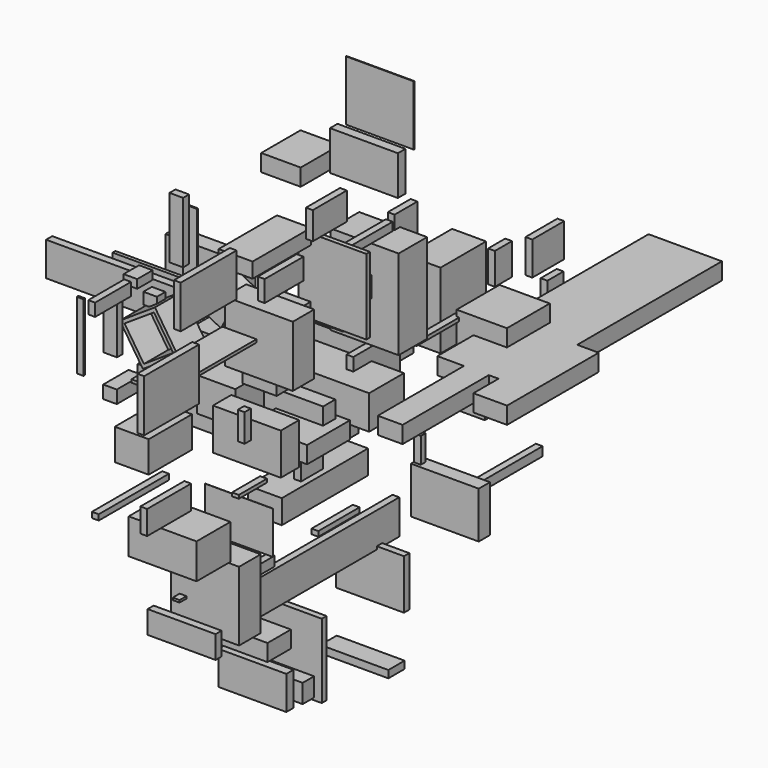
from build123d import *

# Parameters (mm, degrees)
F0_W      = 28.559897095
F0_H      = 32.4217826128
F1_DEPTH  = 25.4
F0_W_2    = 44.2454107106
F0_H_2    = 11.4498063922
F0_W_3    = 133.2189887762
F0_H_3    = 32.6500460505
F0_W_4    = 66.679764539
F0_H_4    = 44.3857759237
F0_W_5    = 37.6412570477
F0_H_5    = 40.0894209743
F2_W      = 80.6891396642
F2_H      = 17.8445279598
F3_DEPTH  = 25.4
F2_W_2    = 31.7957364023
F2_H_2    = 49.1487644613
F2_W_3    = 39.294719696
F2_H_3    = 30.7485386729
F2_W_4    = 42.5942763686
F2_H_4    = 56.4955100417
F2_W_5    = 40.4945909977
F2_H_5    = 23.3645774424
F2_W_6    = 85.1885527372
F2_H_6    = 2.2598206997
F2_W_7    = 54.5923784375
F2_H_7    = 11.3234147429
F2_W_8    = 23.6968249083
F2_H_8    = 16.5533795953
F5_DEPTH  = 25.4
F6_T      = -2.54
F7_W      = 43.297290802
F7_H      = 40.1066243649
F8_DEPTH  = 12.7
F7_W_2    = 18.568277359
F7_H_2    = 80.6431919336
F7_H_3    = 6.7324489355
F7_W_3    = 9.1014951468
F7_H_4    = 62.2424930334
F7_W_4    = 29.5616686344
F7_H_5    = 36.7451608181
F9_W      = 31.8735390902
F9_H      = 20.5675512552
F10_DEPTH = 5.08
F9_W_2    = 21.3022083044
F9_H_2    = 31.3268601894
F9_W_3    = 45.5915033817
F9_H_3    = 6.1755850911
F9_W_4    = 36.3486260176
F9_H_4    = 15.8306434751
F9_W_5    = 52.2584319115
F9_H_5    = 32.0683717728
F9_W_6    = 33.6488336325
F9_H_6    = 9.4421803951
F9_W_7    = 1.519754529
F9_H_7    = 50.4851043224
F9_W_8    = 51.3029694557
F9_H_8    = 39.0299633145
F9_W_9    = 5.8415979147
F9_H_9    = 20.8574011922
F9_W_10   = 65.7223761082
F9_H_10   = 4.1697770357
F9_W_11   = 41.1220341921
F9_H_11   = 17.8798511624
F9_W_12   = 26.3081341982
F9_H_12   = 2.5649964809
F9_W_13   = 20.5110311508
F9_H_13   = 14.8934349418
F9_W_14   = 4.7560185194
F9_H_14   = 11.4292055368
F9_W_15   = 51.387861371
F9_H_15   = 2.6466399431
F9_W_16   = 15.9692913294
F9_H_16   = 23.6483663321
F9_W_17   = 29.8919826746
F9_H_17   = 25.1144468784
F9_W_18   = 15.031337738
F9_H_18   = 19.5079594851
F9_W_19   = 26.9462317228
F9_H_19   = 17.2404795885
F9_W_20   = 4.5361369848
F9_H_20   = 18.9570635557
F9_W_21   = 38.6341363192
F9_H_21   = 3.7466958165
F9_W_22   = 46.9239205122
F9_H_22   = 7.1173608303
F9_W_23   = 6.4502358437
F9_H_23   = 1.664660871
F9_W_24   = 165.9474521875
F9_H_24   = 25.9192734957
F9_W_25   = 58.2427680492
F9_H_25   = 6.6805630922
F11_W     = 99.0424454212
F11_H     = 5.7936012745
F12_DEPTH = 25.4
F11_W_2   = 58.5615038872
F11_H_2   = 2.6696175337
F11_W_3   = 6.8596899509
F11_H_3   = 23.6499011517
F11_W_4   = 44.627815485
F11_H_4   = 11.7246061563
F11_W_5   = 2.7210116386
F11_H_5   = 9.0063214302
F11_W_6   = 31.2420576811
F11_H_6   = 20.0929678977
F11_W_7   = 26.4412611723
F11_H_7   = 37.6913920045
F13_W     = 19.4095000625
F13_H     = 5.0404667854
F14_DEPTH = 10.16
F13_W_2   = 3.6232918501
F13_H_2   = 45.0735986233
F13_W_3   = 23.6924290657
F13_H_3   = 9.6182823181
F13_W_4   = 5.1036439836
F13_H_4   = 38.66545856
F13_W_5   = 14.406517148
F13_H_5   = 6.4018070698
F13_W_6   = 7.9500600696
F13_H_6   = 8.4991455078
F13_W_7   = 5.5729411542
F13_H_7   = 45.8022505045
F13_W_8   = 0.9631291032
F13_H_8   = 112.7025783062
F15_W     = 19.9924185872
F15_H     = 45.6196814775
F16_DEPTH = 50.8
F15_W_2   = 17.1394199133
F15_H_2   = 31.0489833355
F15_W_3   = 0.1778677106
F15_H_3   = 31.7852795124
F15_W_4   = 20.2640295029
F15_H_4   = 51.8726110458
F15_W_5   = 26.6395285726
F15_H_5   = 67.0022368431
F15_W_6   = 0.5219876766
F15_H_6   = 44.9620336294
F15_W_7   = 7.0931091905
F15_H_7   = 29.5194387436
F15_W_8   = 3.3795535564
F15_H_8   = 56.3943237066
F15_W_9   = 4.4685006142
F15_H_9   = 55.5798411369
F15_W_10  = 10.6793195009
F15_H_10  = 14.0244215727
F15_W_11  = 6.6581219435
F15_H_11  = 25.1188278198
F15_W_12  = 21.878965199
F15_H_12  = 12.5806629658
F15_W_13  = 15.1993334293
F15_H_13  = 5.5031627417
F15_W_14  = 5.0265192986
F15_H_14  = 37.2203886509
F15_W_15  = 10.5336606503
F15_H_15  = 34.8431766033
F15_W_16  = 31.6697359085
F15_H_16  = 26.3114124537
F15_W_17  = 5.6465417147
F15_H_17  = 17.0097351074


with BuildPart() as f1:
    # F0 (on Top) → F1 (new body)
    with BuildSketch(Plane.XY):
        with Locations((-23.7494278699, -28.6053717136)):
            Rectangle(F0_W, F0_H)
    extrude(amount=F1_DEPTH)


with BuildPart() as f1b:
    # F0 (on Top) → F1, piece 2 (new body)
    with BuildSketch(Plane.XY):
        with Locations((22.1227053553, -24.1679884493)):
            Rectangle(F0_W_2, F0_H_2)
    extrude(amount=F1_DEPTH)


with BuildPart() as f1c:
    # F0 (on Top) → F1, piece 3 (new body)
    with BuildSketch(Plane.XY):
        with Locations((-11.8577182293, 16.3250230253)):
            Rectangle(F0_W_3, F0_H_3)
    extrude(amount=F1_DEPTH)

    # F4 (on Front) → F5 (join)
    with BuildSketch(Plane.XZ):
        Polygon((-67.9728090763, 20.5160006881), (-85.2052047849, 46.7541962862), (-111.443400383, 29.5218005776), (-94.2110046744, 3.2836049795), align=None)
    extrude(amount=F5_DEPTH)

    # F6
    f6_openings = [f1c.faces().sort_by_distance(p)[0] for p in [
        (-89.708105, -25.4, 25.018901),
    ]]
    offset(amount=F6_T, openings=f6_openings, kind=Kind.INTERSECTION)

    # F11 (on face) → F12, piece 7 (join)
    with BuildSketch(Plane(origin=(0, 0, 0), x_dir=(1, 0, 0), z_dir=(0, 0, -1))):
        with Locations((-53.2291308045, 2.1532215178)):
            Rectangle(F11_W_7, F11_H_7)
    extrude(amount=F12_DEPTH)

    # F13 (on face) → F14, piece 6 (join)
    with BuildSketch(Plane(origin=(-94.3002402782, 0, 0), x_dir=(0, -1, 0), z_dir=(-1, 0, 0))):
        with Locations((8.170388639, 41.1610901356)):
            Rectangle(F13_W_6, F13_H_6)
    extrude(amount=F14_DEPTH)


with BuildPart() as f1d:
    # F0 (on Top) → F1, piece 4 (new body)
    with BuildSketch(Plane.XY):
        with Locations((-20.568812266, 71.7714056373)):
            Rectangle(F0_W_4, F0_H_4)
    extrude(amount=F1_DEPTH)


with BuildPart() as f1e:
    # F0 (on Top) → F1, piece 5 (new body)
    with BuildSketch(Plane.XY):
        with Locations((47.4241748452, 134.5798708498)):
            Rectangle(F0_W_5, F0_H_5)
    extrude(amount=F1_DEPTH)


with BuildPart() as f3:
    # F2 (on Right) → F3 (new body)
    with BuildSketch(Plane.YZ):
        with Locations((-4.6492405236, -43.9149215817)):
            Rectangle(F2_W, F2_H)
    extrude(amount=F3_DEPTH)


with BuildPart() as f3b:
    # F2 (on Right) → F3, piece 2 (new body)
    with BuildSketch(Plane.YZ):
        with Locations((-33.8953118771, 58.8576365262)):
            Rectangle(F2_W_2, F2_H_2)
    extrude(amount=F3_DEPTH)


with BuildPart() as f3c:
    # F2 (on Right) → F3, piece 3 (new body)
    with BuildSketch(Plane.YZ):
        with Locations((31.9458395243, 66.7213834822)):
            Rectangle(F2_W_3, F2_H_3)
    extrude(amount=F3_DEPTH)


with BuildPart() as f3d:
    # F2 (on Right) → F3, piece 4 (new body)
    with BuildSketch(Plane.YZ):
        with Locations((124.7833706439, 28.2477550209)):
            Rectangle(F2_W_4, F2_H_4)
    extrude(amount=F3_DEPTH)


with BuildPart() as f3e:
    # F2 (on Right) → F3, piece 5 (new body)
    with BuildSketch(Plane.YZ):
        with Locations((-149.2297798395, 42.7494179457)):
            Rectangle(F2_W_5, F2_H_5)
    extrude(amount=F3_DEPTH)


with BuildPart() as f3f:
    # F2 (on Right) → F3, piece 6 (new body)
    with BuildSketch(Plane.YZ):
        with Locations((-111.2848892808, 78.2426446676)):
            Rectangle(F2_W_6, F2_H_6)
    extrude(amount=F3_DEPTH)


with BuildPart() as f3g:
    # F2 (on Right) → F3, piece 7 (new body)
    with BuildSketch(Plane.YZ):
        with Locations((-44.9939258397, 126.3194568455)):
            Rectangle(F2_W_7, F2_H_7)
    extrude(amount=F3_DEPTH)


with BuildPart() as f3h:
    # F2 (on Right) → F3, piece 8 (new body)
    with BuildSketch(Plane.YZ):
        with Locations((156.7290946841, -52.5604821742)):
            Rectangle(F2_W_8, F2_H_8)
    extrude(amount=F3_DEPTH)


with BuildPart() as f5:
    # F4 (on Front) → F5, piece 2 (new body)
    with BuildSketch(Plane.XZ):
        Polygon((-27.0770415664, 65.4441937804), (-43.4685274959, 74.2157027125), (-52.240036428, 57.824216783), (-35.8485504985, 49.0527078509), align=None)
    extrude(amount=F5_DEPTH)


with BuildPart() as f8:
    # F7 (on Top) → F8 (new body)
    with BuildSketch(Plane.XY):
        with Locations((30.5206626654, -34.7537100315)):
            Rectangle(F7_W, F7_H)
    extrude(amount=F8_DEPTH)


with BuildPart() as f8b:
    # F7 (on Top) → F8, piece 2 (new body)
    with BuildSketch(Plane.XY):
        with Locations((70.5160871148, 40.3215959668)):
            Rectangle(F7_W_2, F7_H_2)
        Polygon((41.2989556789, 80.6431919336), (61.2319484353, 80.6431919336), (61.2319484353, 87.3756408691), (79.8002257943, 87.3756408691), (79.8002257943, 80.6431919336), (87.0959162712, 80.6431919336), (87.0959162712, 142.885684967), (96.197411418, 142.885684967), (96.197411418, 278.2210111618), (41.2989556789, 278.2210111618), align=None)
        with Locations((70.5160871148, 84.0094164014)):
            Rectangle(F7_W_2, F7_H_3)
        with Locations((91.6466638446, 111.7644384503)):
            Rectangle(F7_W_3, F7_H_4)
        Polygon((96.197411418, 80.6431919336), (87.0959162712, 80.6431919336), (87.0959162712, 57.1549683809), (112.2425943613, 57.1549683809), (112.2425943613, 142.885684967), (96.197411418, 142.885684967), align=None)
    extrude(amount=F8_DEPTH)


with BuildPart() as f8c:
    # F7 (on Top) → F8, piece 3 (new body)
    with BuildSketch(Plane.XY):
        with Locations((-184.8789304495, 235.471740365)):
            Rectangle(F7_W_4, F7_H_5)
    extrude(amount=F8_DEPTH)


with BuildPart() as f10:
    # F9 (on face) → F10 (new body)
    with BuildSketch(Plane.YZ.offset(25.4)):
        with Locations((-6.4310505986, 136.9360610843)):
            Rectangle(F9_W, F9_H)
    extrude(amount=F10_DEPTH)


with BuildPart() as f10b:
    # F9 (on face) → F10, piece 2 (new body)
    with BuildSketch(Plane.YZ.offset(25.4)):
        Polygon((12.2984796762, 66.7213834822), (39.3073111773, 66.7213834822), (51.3761565089, 66.7213834822), (51.3761565089, 82.0956528187), (12.2984796762, 82.0956528187), align=None)
    extrude(amount=F10_DEPTH)


with BuildPart() as f10c:
    # F9 (on face) → F10, piece 3 (new body)
    with BuildSketch(Plane.YZ.offset(25.4)):
        with Locations((64.8548081517, 97.4510535598)):
            Rectangle(F9_W_2, F9_H_2)
    extrude(amount=F10_DEPTH)


with BuildPart() as f10d:
    # F9 (on face) → F10, piece 4 (new body)
    with BuildSketch(Plane.YZ.offset(25.4)):
        with Locations((29.6652317047, 106.1042807996)):
            Rectangle(F9_W_3, F9_H_3)
    extrude(amount=F10_DEPTH)


with BuildPart() as f10e:
    # F9 (on face) → F10, piece 5 (new body)
    with BuildSketch(Plane.YZ.offset(25.4)):
        with Locations((-49.1818711162, 112.1693737805)):
            Rectangle(F9_W_4, F9_H_4)
    extrude(amount=F10_DEPTH)


with BuildPart() as f10f:
    # F9 (on face) → F10, piece 6 (new body)
    with BuildSketch(Plane.YZ.offset(25.4)):
        with Locations((-119.7269111872, 133.5855424404)):
            Rectangle(F9_W_5, F9_H_5)
    extrude(amount=F10_DEPTH)


with BuildPart() as f10g:
    # F9 (on face) → F10, piece 7 (new body)
    with BuildSketch(Plane.YZ.offset(25.4)):
        with Locations((-209.1561034322, 164.3262058496)):
            Rectangle(F9_W_6, F9_H_6)
    extrude(amount=F10_DEPTH)


with BuildPart() as f10h:
    # F9 (on face) → F10, piece 8 (new body)
    with BuildSketch(Plane.YZ.offset(25.4)):
        with Locations((-235.9959408641, 150.3864824772)):
            Rectangle(F9_W_7, F9_H_7)
    extrude(amount=F10_DEPTH)


with BuildPart() as f10i:
    # F9 (on face) → F10, piece 9 (new body)
    with BuildSketch(Plane.YZ.offset(25.4)):
        with Locations((-154.4145345688, 82.4102647603)):
            Rectangle(F9_W_8, F9_H_8)
    extrude(amount=F10_DEPTH)


with BuildPart() as f10j:
    # F9 (on face) → F10, piece 10 (new body)
    with BuildSketch(Plane.YZ.offset(25.4)):
        with Locations((-83.1973180175, 29.5950435102)):
            Rectangle(F9_W_9, F9_H_9)
    extrude(amount=F10_DEPTH)


with BuildPart() as f10k:
    # F9 (on face) → F10, piece 11 (new body)
    with BuildSketch(Plane.YZ.offset(25.4)):
        with Locations((-189.7084265947, 26.1527821422)):
            Rectangle(F9_W_10, F9_H_10)
    extrude(amount=F10_DEPTH)


with BuildPart() as f10l:
    # F9 (on face) → F10, piece 12 (new body)
    with BuildSketch(Plane.YZ.offset(25.4)):
        with Locations((-156.7019745708, 4.3851770461)):
            Rectangle(F9_W_11, F9_H_11)
    extrude(amount=F10_DEPTH)


with BuildPart() as f10m:
    # F9 (on face) → F10, piece 13 (new body)
    with BuildSketch(Plane.YZ.offset(25.4)):
        with Locations((-78.3722773194, -13.5600194335)):
            Rectangle(F9_W_12, F9_H_12)
    extrude(amount=F10_DEPTH)


with BuildPart() as f10n:
    # F9 (on face) → F10, piece 14 (new body)
    with BuildSketch(Plane.YZ.offset(25.4)):
        with Locations((-23.1081545353, -19.6737386286)):
            Rectangle(F9_W_13, F9_H_13)
    extrude(amount=F10_DEPTH)


with BuildPart() as f10o:
    # F9 (on face) → F10, piece 15 (new body)
    with BuildSketch(Plane.YZ.offset(25.4)):
        Polygon((5.8918297291, -17.1265602112), (20.2883034945, -17.1265602112), (20.2883034945, 6.2867254019), (15.5322849751, 6.2867254019), (15.5322849751, 17.7159309387), (5.8918297291, 17.7159309387), align=None)
        with Locations((17.9102942348, 12.0013281703)):
            Rectangle(F9_W_14, F9_H_14)
        Polygon((20.2883034945, 17.7159309387), (20.2883034945, 6.2867254019), (59.450134635, 6.2867254019), (59.450134635, 35.040602088), (15.5322849751, 35.040602088), (15.5322849751, 17.7159309387), align=None)
    extrude(amount=F10_DEPTH)


with BuildPart() as f10p:
    # F9 (on face) → F10, piece 16 (new body)
    with BuildSketch(Plane.YZ.offset(25.4)):
        with Locations((100.3523394465, 19.5119306445)):
            Rectangle(F9_W_15, F9_H_15)
    extrude(amount=F10_DEPTH)


with BuildPart() as f10q:
    # F9 (on face) → F10, piece 17 (new body)
    with BuildSketch(Plane.YZ.offset(25.4)):
        with Locations((156.0259237885, 39.2498597503)):
            Rectangle(F9_W_16, F9_H_16)
    extrude(amount=F10_DEPTH)


with BuildPart() as f10r:
    # F9 (on face) → F10, piece 18 (new body)
    with BuildSketch(Plane.YZ.offset(25.4)):
        with Locations((197.9082152247, 31.8285226822)):
            Rectangle(F9_W_17, F9_H_17)
    extrude(amount=F10_DEPTH)


with BuildPart() as f10s:
    # F9 (on face) → F10, piece 19 (new body)
    with BuildSketch(Plane.YZ.offset(25.4)):
        with Locations((204.6553343534, 1.7469003797)):
            Rectangle(F9_W_18, F9_H_18)
    extrude(amount=F10_DEPTH)


with BuildPart() as f10t:
    # F9 (on face) → F10, piece 20 (new body)
    with BuildSketch(Plane.YZ.offset(25.4)):
        with Locations((123.5722973943, -31.2805697322)):
            Rectangle(F9_W_19, F9_H_19)
    extrude(amount=F10_DEPTH)


with BuildPart() as f10u:
    # F9 (on face) → F10, piece 21 (new body)
    with BuildSketch(Plane.YZ.offset(25.4)):
        with Locations((80.9571370482, -52.1335378289)):
            Rectangle(F9_W_20, F9_H_20)
    extrude(amount=F10_DEPTH)


with BuildPart() as f10v:
    # F9 (on face) → F10, piece 22 (new body)
    with BuildSketch(Plane.YZ.offset(25.4)):
        with Locations((2.1378174424, -68.2023502886)):
            Rectangle(F9_W_21, F9_H_21)
    extrude(amount=F10_DEPTH)


with BuildPart() as f10w:
    # F9 (on face) → F10, piece 23 (new body)
    with BuildSketch(Plane.YZ.offset(25.4)):
        with Locations((-81.415630877, -69.5045515895)):
            Rectangle(F9_W_22, F9_H_22)
    extrude(amount=F10_DEPTH)


with BuildPart() as f10x:
    # F9 (on face) → F10, piece 24 (new body)
    with BuildSketch(Plane.YZ.offset(25.4)):
        with Locations((-143.7149047852, -59.8716326058)):
            Rectangle(F9_W_23, F9_H_23)
    extrude(amount=F10_DEPTH)


with BuildPart() as f10y:
    # F9 (on face) → F10, piece 25 (new body)
    with BuildSketch(Plane.YZ.offset(25.4)):
        with Locations((-24.4036391377, -87.8121778369)):
            Rectangle(F9_W_24, F9_H_24)
    extrude(amount=F10_DEPTH)


with BuildPart() as f10z:
    # F9 (on face) → F10, piece 26 (new body)
    with BuildSketch(Plane.YZ.offset(25.4)):
        with Locations((163.4963601828, -99.0376248956)):
            Rectangle(F9_W_25, F9_H_25)
    extrude(amount=F10_DEPTH)


with BuildPart() as f12:
    # F11 (on face) → F12 (new body)
    with BuildSketch(Plane(origin=(0, 0, 0), x_dir=(1, 0, 0), z_dir=(0, 0, -1))):
        with Locations((-194.9659734964, -74.7910290956)):
            Rectangle(F11_W, F11_H)
    extrude(amount=F12_DEPTH)


with BuildPart() as f12b:
    # F11 (on face) → F12, piece 2 (new body)
    with BuildSketch(Plane(origin=(0, 0, 0), x_dir=(1, 0, 0), z_dir=(0, 0, -1))):
        with Locations((-174.6852993965, -84.7581699491)):
            Rectangle(F11_W_2, F11_H_2)
    extrude(amount=F12_DEPTH)


with BuildPart() as f12c:
    # F11 (on face) → F12, piece 3 (new body)
    with BuildSketch(Plane(origin=(0, 0, 0), x_dir=(1, 0, 0), z_dir=(0, 0, -1))):
        with Locations((-127.2931843996, -105.3665429354)):
            Rectangle(F11_W_3, F11_H_3)
    extrude(amount=F12_DEPTH)


with BuildPart() as f12d:
    # F11 (on face) → F12, piece 4 (new body)
    with BuildSketch(Plane(origin=(0, 0, 0), x_dir=(1, 0, 0), z_dir=(0, 0, -1))):
        with Locations((-172.218516469, -127.0445361733)):
            Rectangle(F11_W_4, F11_H_4)
    extrude(amount=F12_DEPTH)


with BuildPart() as f12e:
    # F11 (on face) → F12, piece 5 (new body)
    with BuildSketch(Plane(origin=(0, 0, 0), x_dir=(1, 0, 0), z_dir=(0, 0, -1))):
        with Locations((-118.2885318995, -132.8906267881)):
            Rectangle(F11_W_5, F11_H_5)
    extrude(amount=F12_DEPTH)


with BuildPart() as f12f:
    # F11 (on face) → F12, piece 6 (new body)
    with BuildSketch(Plane(origin=(0, 0, 0), x_dir=(1, 0, 0), z_dir=(0, 0, -1))):
        with Locations((-78.6792114377, -56.7272584885)):
            Rectangle(F11_W_6, F11_H_6)
    extrude(amount=F12_DEPTH)


with BuildPart() as f14:
    # F13 (on face) → F14 (new body)
    with BuildSketch(Plane(origin=(-94.3002402782, 0, 0), x_dir=(0, -1, 0), z_dir=(-1, 0, 0))):
        with Locations((-9.7047500312, -59.408634901)):
            Rectangle(F13_W, F13_H)
    extrude(amount=F14_DEPTH)


with BuildPart() as f14b:
    # F13 (on face) → F14, piece 2 (new body)
    with BuildSketch(Plane(origin=(-94.3002402782, 0, 0), x_dir=(0, -1, 0), z_dir=(-1, 0, 0))):
        with Locations((15.6041830778, -22.5367993116)):
            Rectangle(F13_W_2, F13_H_2)
    extrude(amount=F14_DEPTH)


with BuildPart() as f14c:
    # F13 (on face) → F14, piece 3 (new body)
    with BuildSketch(Plane(origin=(-94.3002402782, 0, 0), x_dir=(0, -1, 0), z_dir=(-1, 0, 0))):
        with Locations((37.8492251039, -5.2394270897)):
            Rectangle(F13_W_3, F13_H_3)
    extrude(amount=F14_DEPTH)


with BuildPart() as f14d:
    # F13 (on face) → F14, piece 4 (new body)
    with BuildSketch(Plane(origin=(-94.3002402782, 0, 0), x_dir=(0, -1, 0), z_dir=(-1, 0, 0))):
        with Locations((46.9797644764, 40.0141999125)):
            Rectangle(F13_W_4, F13_H_4)
    extrude(amount=F14_DEPTH)


with BuildPart() as f14e:
    # F13 (on face) → F14, piece 5 (new body)
    with BuildSketch(Plane(origin=(-94.3002402782, 0, 0), x_dir=(0, -1, 0), z_dir=(-1, 0, 0))):
        with Locations((23.3927369118, 61.3347142935)):
            Rectangle(F13_W_5, F13_H_5)
    extrude(amount=F14_DEPTH)


with BuildPart() as f14f:
    # F13 (on face) → F14, piece 7 (new body)
    with BuildSketch(Plane(origin=(-94.3002402782, 0, 0), x_dir=(0, -1, 0), z_dir=(-1, 0, 0))):
        with Locations((-15.1341501623, 77.7026042342)):
            Rectangle(F13_W_7, F13_H_7)
    extrude(amount=F14_DEPTH)


with BuildPart() as f14g:
    # F13 (on face) → F14, piece 8 (new body)
    with BuildSketch(Plane(origin=(-94.3002402782, 0, 0), x_dir=(0, -1, 0), z_dir=(-1, 0, 0))):
        with Locations((-25.603916496, 31.8038016558)):
            Rectangle(F13_W_8, F13_H_8)
    extrude(amount=F14_DEPTH)


with BuildPart() as f16:
    # F15 (on Right) → F16 (new body)
    with BuildSketch(Plane.YZ):
        with Locations((-56.4437918365, 75.3966197371)):
            Rectangle(F15_W, F15_H)
    extrude(amount=F16_DEPTH)


with BuildPart() as f16b:
    # F15 (on Right) → F16, piece 2 (new body)
    with BuildSketch(Plane.YZ):
        with Locations((-69.0796673298, 15.5244916677)):
            Rectangle(F15_W_2, F15_H_2)
    extrude(amount=F16_DEPTH)


with BuildPart() as f16c:
    # F15 (on Right) → F16, piece 3 (new body)
    with BuildSketch(Plane.YZ):
        with Locations((-85.0100852549, -33.2448333502)):
            Rectangle(F15_W_3, F15_H_3)
    extrude(amount=F16_DEPTH)


with BuildPart() as f16d:
    # F15 (on Right) → F16, piece 4 (new body)
    with BuildSketch(Plane.YZ):
        with Locations((-106.5449118614, -68.7353610992)):
            Rectangle(F15_W_4, F15_H_4)
    extrude(amount=F16_DEPTH)


with BuildPart() as f16e:
    # F15 (on Right) → F16, piece 5 (new body)
    with BuildSketch(Plane.YZ):
        with Locations((45.8688773215, 69.4117844105)):
            Rectangle(F15_W_5, F15_H_5)
    extrude(amount=F16_DEPTH)


with BuildPart() as f16f:
    # F15 (on Right) → F16, piece 6 (new body)
    with BuildSketch(Plane.YZ):
        with Locations((46.9354167581, 188.1117448211)):
            Rectangle(F15_W_6, F15_H_6)
    extrude(amount=F16_DEPTH)


with BuildPart() as f16g:
    # F15 (on Right) → F16, piece 7 (new body)
    with BuildSketch(Plane.YZ):
        with Locations((35.3880412877, 154.5150876045)):
            Rectangle(F15_W_7, F15_H_7)
    extrude(amount=F16_DEPTH)


with BuildPart() as f16h:
    # F15 (on Right) → F16, piece 8 (new body)
    with BuildSketch(Plane.YZ):
        with Locations((4.0822923183, 86.7033079267)):
            Rectangle(F15_W_8, F15_H_8)
    extrude(amount=F16_DEPTH)


with BuildPart() as f16i:
    # F15 (on Right) → F16, piece 9 (new body)
    with BuildSketch(Plane.YZ):
        with Locations((-37.1127426624, -136.2366974354)):
            Rectangle(F15_W_9, F15_H_9)
    extrude(amount=F16_DEPTH)


with BuildPart() as f16j:
    # F15 (on Right) → F16, piece 10 (new body)
    with BuildSketch(Plane.YZ):
        with Locations((-51.8635436893, -150.4418179393)):
            Rectangle(F15_W_10, F15_H_10)
    extrude(amount=F16_DEPTH)


with BuildPart() as f16k:
    # F15 (on Right) → F16, piece 11 (new body)
    with BuildSketch(Plane.YZ):
        with Locations((-69.1384747624, -143.8883692026)):
            Rectangle(F15_W_11, F15_H_11)
    extrude(amount=F16_DEPTH)


with BuildPart() as f16l:
    # F15 (on Right) → F16, piece 12 (new body)
    with BuildSketch(Plane.YZ):
        with Locations((-79.1266299784, -110.1191341877)):
            Rectangle(F15_W_12, F15_H_12)
    extrude(amount=F16_DEPTH)


with BuildPart() as f16m:
    # F15 (on Right) → F16, piece 13 (new body)
    with BuildSketch(Plane.YZ):
        with Locations((30.5605828762, -170.3141853213)):
            Rectangle(F15_W_13, F15_H_13)
    extrude(amount=F16_DEPTH)


with BuildPart() as f16n:
    # F15 (on Right) → F16, piece 14 (new body)
    with BuildSketch(Plane.YZ):
        with Locations((40.0867164135, -117.1613186598)):
            Rectangle(F15_W_14, F15_H_14)
    extrude(amount=F16_DEPTH)


with BuildPart() as f16o:
    # F15 (on Right) → F16, piece 15 (new body)
    with BuildSketch(Plane.YZ):
        with Locations((112.7436757088, -99.8814553022)):
            Rectangle(F15_W_15, F15_H_15)
    extrude(amount=F16_DEPTH)


with BuildPart() as f16p:
    # F15 (on Right) → F16, piece 16 (new body)
    with BuildSketch(Plane.YZ):
        with Locations((-140.6282931566, -23.0515375733)):
            Rectangle(F15_W_16, F15_H_16)
    extrude(amount=F16_DEPTH)


with BuildPart() as f16q:
    # F15 (on Right) → F16, piece 17 (new body)
    with BuildSketch(Plane.YZ):
        with Locations((-135.8685418963, -86.7280364037)):
            Rectangle(F15_W_17, F15_H_17)
    extrude(amount=F16_DEPTH)


solid = Compound([f1.part, f1b.part, f1c.part, f1d.part, f1e.part, f3.part, f3b.part, f3c.part, f3d.part, f3e.part, f3f.part, f3g.part, f3h.part, f5.part, f8.part, f8b.part, f8c.part, f10.part, f10b.part, f10c.part, f10d.part, f10e.part, f10f.part, f10g.part, f10h.part, f10i.part, f10j.part, f10k.part, f10l.part, f10m.part, f10n.part, f10o.part, f10p.part, f10q.part, f10r.part, f10s.part, f10t.part, f10u.part, f10v.part, f10w.part, f10x.part, f10y.part, f10z.part, f12.part, f12b.part, f12c.part, f12d.part, f12e.part, f12f.part, f14.part, f14b.part, f14c.part, f14d.part, f14e.part, f14f.part, f14g.part, f16.part, f16b.part, f16c.part, f16d.part, f16e.part, f16f.part, f16g.part, f16h.part, f16i.part, f16j.part, f16k.part, f16l.part, f16m.part, f16n.part, f16o.part, f16p.part, f16q.part])
